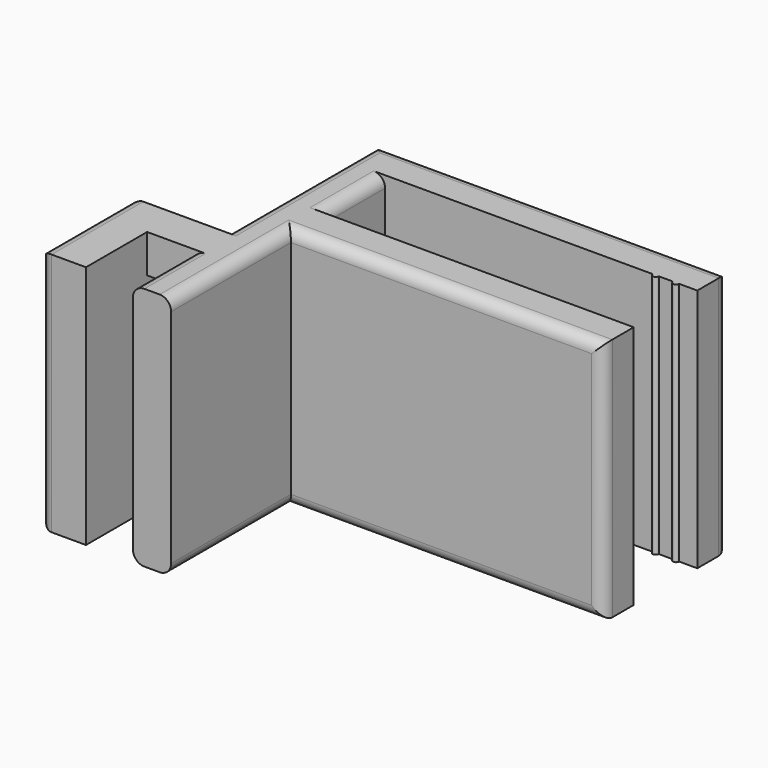
from build123d import *

# Parameters (mm, degrees)
F0_W     = 6.14
F0_H     = 5
F1_DEPTH = 32
F2_W     = 6.14
F2_H     = 21.9306324124
F3_DEPTH = 5
F4_DEPTH = 5.4
F5_DEPTH = 5.4
F6_R     = 1.5


with BuildPart() as f1:
    # F0 (on Top) → F1 (new body)
    with BuildSketch(Plane.XY):
        Polygon((0, 15), (0, 0), (6, 0), (6, 10), (6, 15), align=None)
        with Locations((9.07, 12.5)):
            Rectangle(F0_W, F0_H)
        Polygon((12.14, 15), (12.14, 10), (12.14, 0), (17.14, 0), (17.14, 25), (58, 25), (58, 30), (17.14, 30), (17.14, 35), (52.157233721, 35), (52.957233721, 35), (54.8181005478, 35), (55.6181005478, 35), (58, 35), (58, 40), (12.14, 40), (12.14, 25), align=None)
        with BuildLine():
            ThreePointArc((54.8181005478, 35), (55.2181005478, 34.6), (55.6181005478, 35))
            Line((55.6181005478, 35), (54.8181005478, 35))
        make_face()
        with BuildLine():
            ThreePointArc((52.157233721, 35), (52.557233721, 34.6), (52.957233721, 35))
            Line((52.957233721, 35), (52.157233721, 35))
        make_face()
    extrude(amount=F1_DEPTH)

    # F2 (on face) → F3 (cut)
    with BuildSketch(Plane.XZ.offset(-10)):
        with Locations((9.07, 16.0346837938)):
            Rectangle(F2_W, F2_H)
    extrude(amount=-F3_DEPTH, mode=Mode.SUBTRACT)

    # F4 (add): a face of the model
    f4_faces = [f1.faces().sort_by_distance(p)[0] for p in [
        (37.57, 25, 16),
    ]]
    extrude(f4_faces, amount=F4_DEPTH)

    # F5 (cut): a face of the model
    f5_faces = [f1.faces().sort_by_distance(p)[0] for p in [
        (37.57, 30, 16),
    ]]
    extrude(f5_faces, amount=-F5_DEPTH, mode=Mode.SUBTRACT)

    # F6
    f6_edges = [f1.edges().sort_by_distance(p)[0] for p in [
        (12.14, 5, 32),
        (12.14, 27.5, 32),
        (12.14, 5, 0),
        (12.14, 27.5, 0),
        (0, 15, 16),
        (0, 0, 16),
        (0, 7.5, 0),
        (0, 7.5, 32),
        (17.14, 9.8, 0),
        (17.14, 29.8, 0),
        (17.14, 29.8, 32),
        (17.14, 9.8, 32),
        (37.57, 19.6, 32),
        (37.57, 19.6, 0),
        (35.07, 40, 0),
        (35.07, 40, 32),
        (58, 40, 16),
        (58, 19.6, 16),
    ]]
    fillet(f6_edges, radius=F6_R)


solid = f1.part
